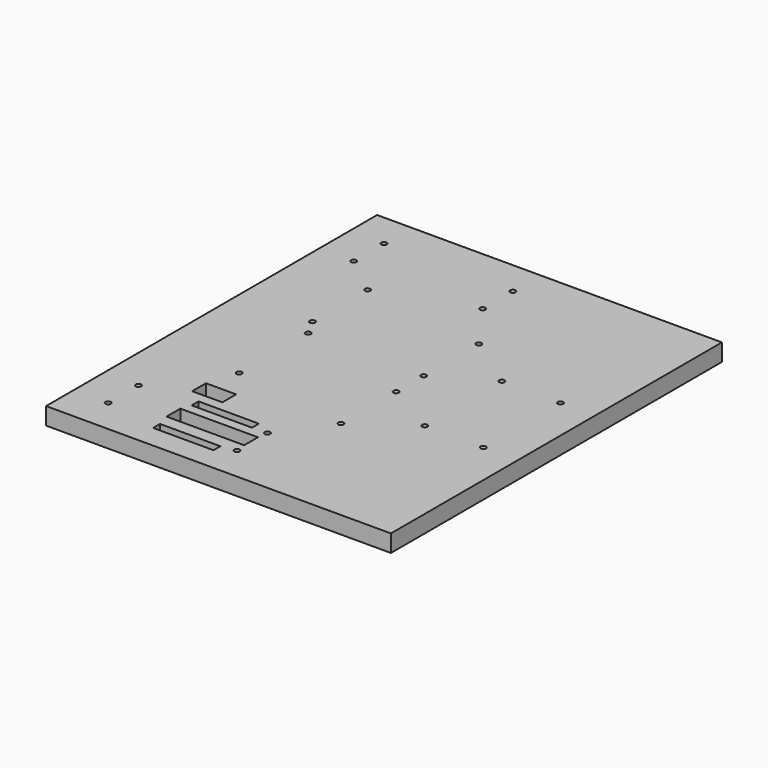
from build123d import *

# Parameters (mm, degrees)
F0_W     = 254
F0_H     = 304.8
F1_DEPTH = 12.7
F2_R     = 1.9812
F2_W     = 57.15
F2_H     = 12.7
F2_W_2   = 44.45
F2_H_2   = 6.35
F2_W_3   = 22.225
F3_DEPTH = 25.4


with BuildPart() as f1:
    # F0 (on Top) → F1 (new body)
    with BuildSketch(Plane.XY):
        Rectangle(F0_W, F0_H)
    extrude(amount=F1_DEPTH)

    # F2 (on face) → F3 (cut)
    with BuildSketch(Plane.XY.offset(12.7)):
        with Locations((-101.6, 127)):
            Circle(F2_R)
        with Locations((-101.6, 99.114788)):
            Circle(F2_R)
        with Locations((-6.609004, 127)):
            Circle(F2_R)
        with Locations((-6.609004, 99.114788)):
            Circle(F2_R)
        with Locations((-101.6, -99.114788)):
            Circle(F2_R)
        with Locations((-6.609004, -99.114788)):
            Circle(F2_R)
        with Locations((-6.609004, -127)):
            Circle(F2_R)
        with Locations((-101.6, -127)):
            Circle(F2_R)
        with Locations((-73.025, 76.2)):
            Circle(F2_R)
        with Locations((-73.025, 25.4)):
            Circle(F2_R)
        with Locations((-66.04, 12.7)):
            Circle(F2_R)
        with Locations((-66.04, -50.8)):
            Circle(F2_R)
        with Locations((19.05, -12.7)):
            Circle(F2_R)
        with Locations((19.05, -63.5)):
            Circle(F2_R)
        with Locations((19.05, 63.5)):
            Circle(F2_R)
        with Locations((19.05, 12.7)):
            Circle(F2_R)
        with Locations((58.42, 35.56)):
            Circle(F2_R)
        with Locations((101.6, 35.56)):
            Circle(F2_R)
        with Locations((58.42, -35.56)):
            Circle(F2_R)
        with Locations((101.6, -35.56)):
            Circle(F2_R)
        with Locations((-36.123804, -112.983188)):
            Rectangle(F2_W, F2_H)
        with Locations((-39.679804, -132.0292)):
            Rectangle(F2_W_2, F2_H_2)
        with Locations((-61.8617, -79.099588)):
            Rectangle(F2_W_3, F2_H)
        with Locations((-39.933804, -96.244588)):
            Rectangle(F2_W_2, F2_H_2)
    extrude(amount=-F3_DEPTH, mode=Mode.SUBTRACT)


solid = f1.part
